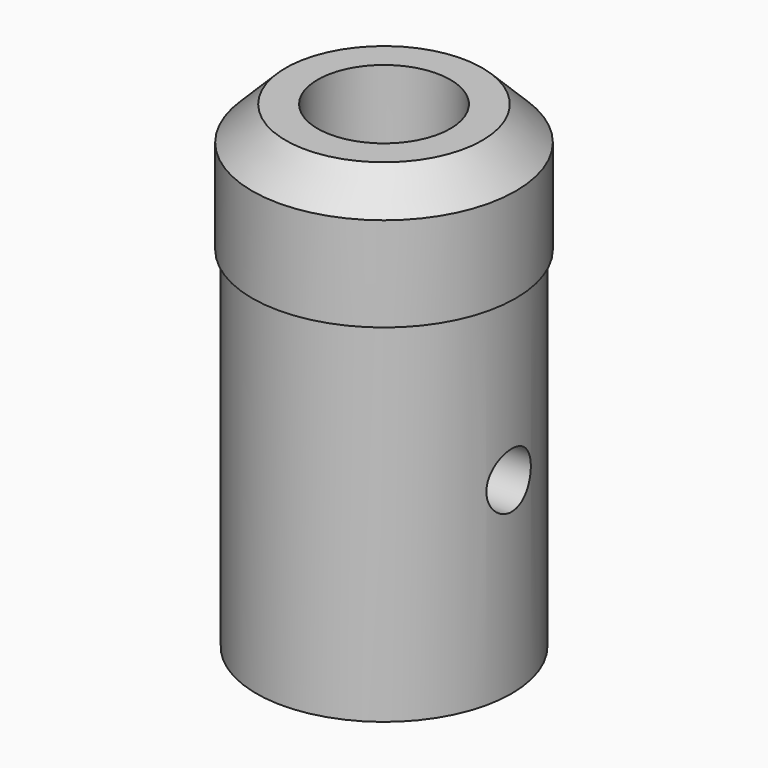
from build123d import *

# Parameters (mm, degrees)
F4_D     = 5
F5_D     = 4.2
F5_DEPTH = 9.9705
F6_D     = 4.2


with BuildPart() as f1:
    # F0 (on Front) → F1 (revolve)
    with BuildSketch(Plane.XZ):
        Polygon((5.5753, 20.0152), (5.5753, 0), (9.652, 0), (9.652, 26.416), (9.9695, 26.416), (9.9695, 33.5534), (7.4295, 36.0934), (5.0165, 36.0934), (5.0165, 25.0444), (0, 25.0444), (0, 20.0152), align=None)
    revolve(axis=Axis((0, 0, 18.0467), (0, 0, 1)))

    # F4 (through all)
    with Locations(Plane.XY.offset(25.0444)):
        with Locations((0, 0)):
            Hole(F4_D / 2)

    # F5 (through all, one way)
    with BuildSketch(Plane.YZ):
        with Locations((0, 14.2)):
            Circle(F5_D / 2)
    extrude(amount=-F5_DEPTH, mode=Mode.SUBTRACT)

    # F6 (through all)
    with Locations(Plane(origin=(0, 0, 0), x_dir=(0, 1, 0), z_dir=(-1, 0, 0))):
        with Locations((0, -14.2)):
            Hole(F6_D / 2)


solid = f1.part
